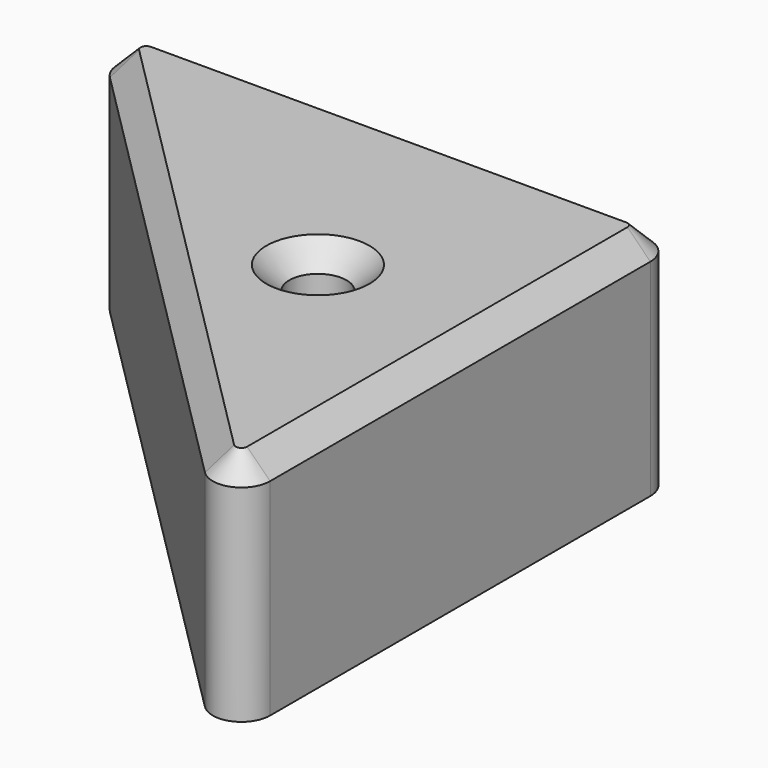
from build123d import *

# Parameters (mm, degrees)
F1_DEPTH = 50.8
F2_SIZE  = 5.08


with BuildPart() as f1:
    # F0 (on Top) → F1 (new body)
    with BuildSketch(Plane.XY):
        with BuildLine():
            Line((38.243972, 34.775752), (-67.075772, 34.775752))
            ThreePointArc((-67.075772, 34.775752), (-72.942407, 30.855792), (-71.5659, 23.935624))
            Line((-71.5659, 23.935624), (33.753843, -81.38412))
            ThreePointArc((33.753843, -81.38412), (40.674011, -82.760627), (44.593972, -76.893992))
            Line((44.593972, -76.893992), (44.593972, 28.425752))
            ThreePointArc((44.593972, 28.425752), (42.7341, 32.91588), (38.243972, 34.775752))
        make_face()
        with BuildLine():
            ThreePointArc((0.143972, -16.024248), (6.493972, -9.674248), (12.843972, -16.024248))
            ThreePointArc((12.843972, -16.024248), (6.493972, -22.374248), (0.143972, -16.024248))
        make_face(mode=Mode.SUBTRACT)
    extrude(amount=F1_DEPTH)

    # F2
    f2_edges = [f1.edges().sort_by_distance(p)[0] for p in [
        (44.593972, -24.23412, 50.8),
        (0.143972, -16.024248, 50.8),
    ]]
    chamfer(f2_edges, length=F2_SIZE)


solid = f1.part
